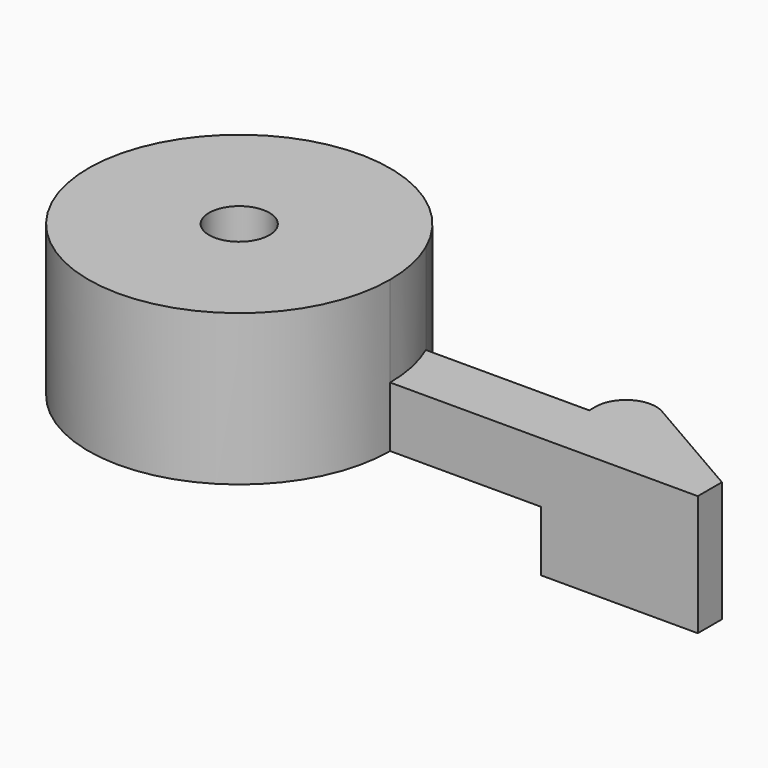
from build123d import *

# Parameters (mm, degrees)
F1_DEPTH = 2
F2_DEPTH = 5
F3_DEPTH = 2
F4_R     = 1
F5_D     = 2


with BuildPart() as f1:
    # F0 (on Top) → F1 (new body)
    with BuildSketch(Plane.XY):
        with BuildLine():
            ThreePointArc((4.582575695, 2), (4.8945315647, 1.0215482184), (5, 0))
            Line((5, 0), (10, 0))
            Line((10, 0), (10, 2))
            Line((10, 2), (4.582575695, 2))
        make_face()
    extrude(amount=F1_DEPTH)

    # F0 (on Top) → F2 (join)
    with BuildSketch(Plane.XY):
        with BuildLine():
            ThreePointArc((4.582575695, 2), (-4.8945315647, -1.0215482184), (5, 0))
            ThreePointArc((5, 0), (4.8945315647, 1.0215482184), (4.582575695, 2))
        make_face()
    extrude(amount=F2_DEPTH)

    # F0 (on Top) → F3 (join, symmetric)
    with BuildSketch(Plane.XY):
        Polygon((10, 2), (10, 0), (15.196, 0), (15.196, 1), (10, 4), align=None)
    extrude(amount=F3_DEPTH, both=True)

    # F4
    f4_edges = [f1.edges().sort_by_distance(p)[0] for p in [
        (10, 4, 0),
    ]]
    fillet(f4_edges, radius=F4_R)

    # F5 (through all)
    with Locations(Plane(origin=(0, 0, 0), x_dir=(1, 0, 0), z_dir=(0, 0, -1))):
        with Locations((0, 0)):
            Hole(F5_D / 2)


solid = f1.part
